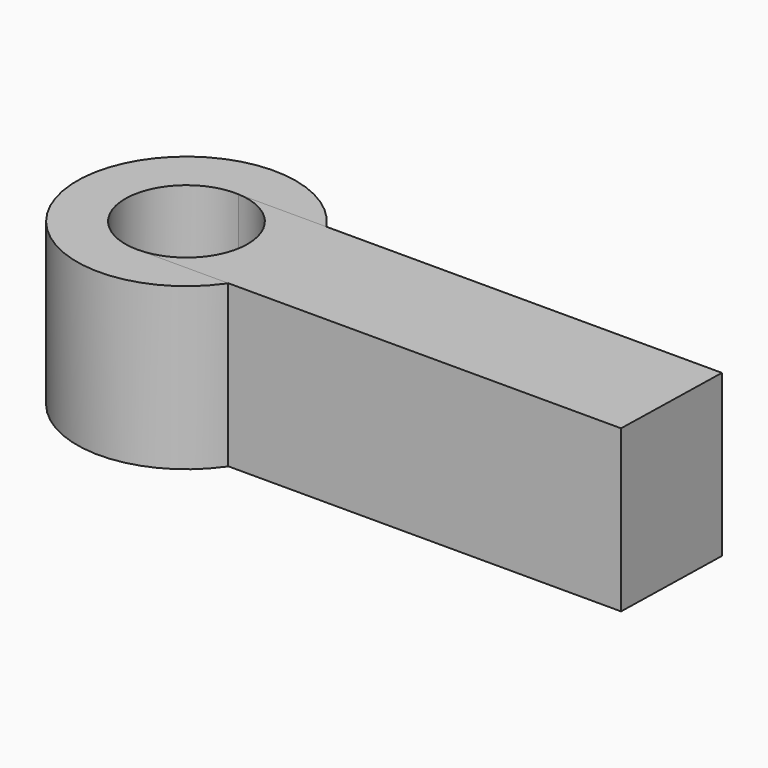
from build123d import *

# Parameters (mm, degrees)
F1_R     = 3.4
F2_DEPTH = 5
F3_DEPTH = 25
F4_DEPTH = 5


with BuildPart() as f2:
    # F1 (on Top) → F2 (new body)
    with BuildSketch(Plane.XY):
        with Locations((1.299126, 1.38646)):
            Circle(F1_R)
    extrude(amount=F2_DEPTH)

    # F0 (on Top) → F3 (cut)
    with BuildSketch(Plane.XY):
        with BuildLine():
            ThreePointArc((1.299126, -0.51354), (2.642629, 0.042957), (3.199126, 1.38646))
            ThreePointArc((3.199126, 1.38646), (2.674243, 2.697587), (1.389596, 3.284305))
            ThreePointArc((1.389596, 3.284305), (-0.600335, 1.431708), (1.299126, -0.51354))
        make_face()
    extrude(amount=F3_DEPTH, mode=Mode.SUBTRACT)


with BuildPart() as f4:
    # F0 (on Top) → F4 (new body)
    with BuildSketch(Plane.XY):
        with BuildLine():
            ThreePointArc((1.389596, 3.284305), (2.674243, 2.697587), (3.199126, 1.38646))
            ThreePointArc((3.199126, 1.38646), (2.642629, 0.042957), (1.299126, -0.51354))
            Line((1.299126, -0.51354), (16.299126, -0.51354))
            Line((16.299126, -0.51354), (16.389596, 3.284305))
            Line((16.389596, 3.284305), (1.389596, 3.284305))
        make_face()
    extrude(amount=F4_DEPTH)


solid = Compound([f2.part, f4.part])
